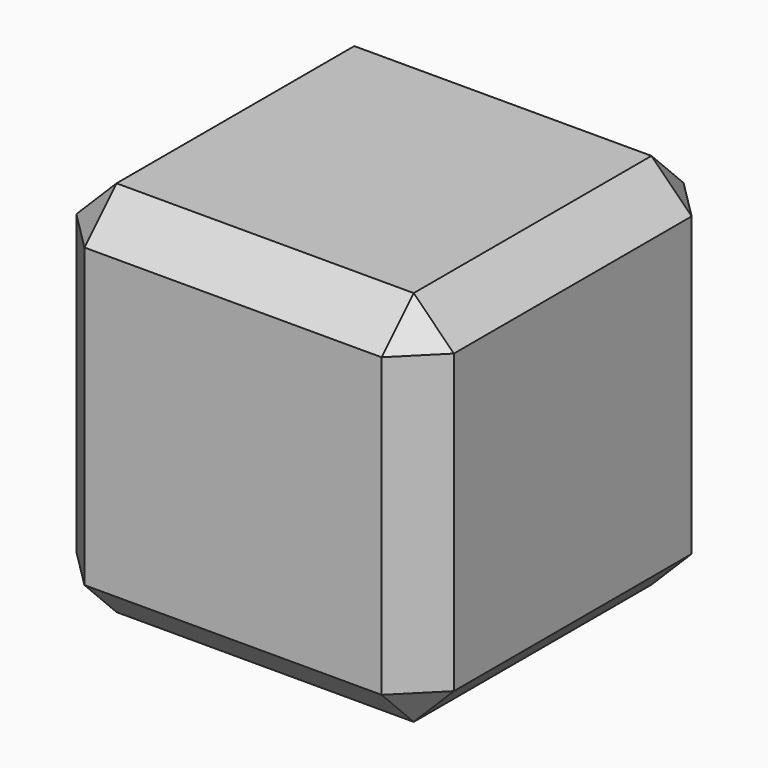
from build123d import *

# Parameters (mm, degrees)
F0_W     = 18.796
F0_H     = 18.796
F1_DEPTH = 18.796
F2_SIZE2 = 2
F2_SIZE  = 2


with BuildPart() as f1:
    # F0 (on Top) → F1 (new body)
    with BuildSketch(Plane.XY):
        with Locations((-33.203556, -17.694149)):
            Rectangle(F0_W, F0_H)
    extrude(amount=F1_DEPTH)

    # F2
    f2_edges = [f1.edges().sort_by_distance(p)[0] for p in [
        (-42.601556, -17.694149, 18.796),
        (-33.203556, -27.092149, 18.796),
        (-42.601556, -27.092149, 9.398),
        (-42.601556, -8.296149, 9.398),
        (-42.601556, -17.694149, 0),
        (-33.203556, -27.092149, 0),
        (-23.805556, -27.092149, 9.398),
        (-33.203556, -8.296149, 18.796),
        (-23.805556, -8.296149, 9.398),
        (-23.805556, -17.694149, 0),
        (-23.805556, -17.694149, 18.796),
        (-33.203556, -8.296149, 0),
    ]]
    chamfer(f2_edges, length=F2_SIZE, length2=F2_SIZE2)


solid = f1.part
